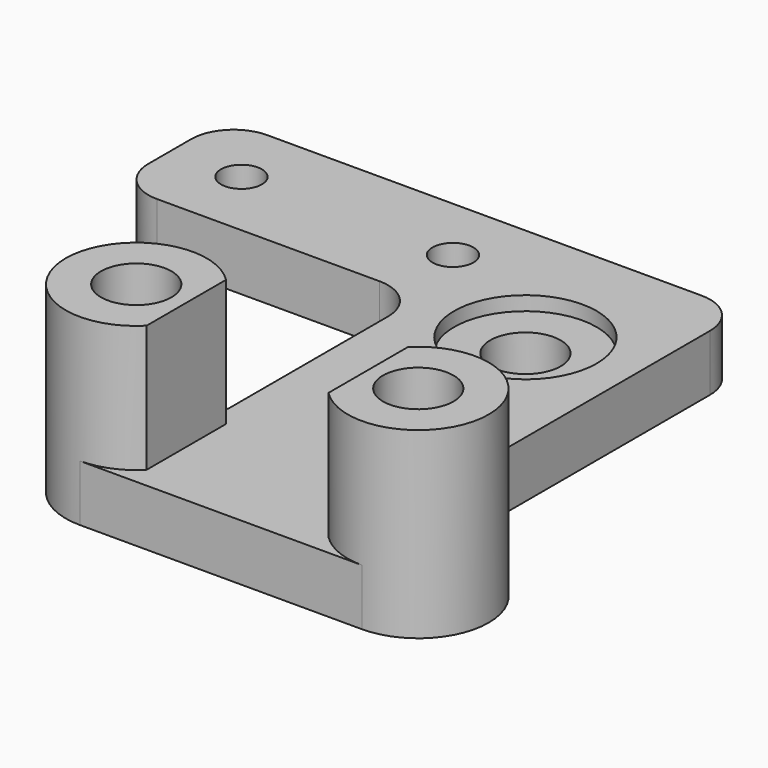
from build123d import *

# Parameters (mm, degrees)
SKETCH_R          = 2.5
SKETCH_R_2        = 1.45
PAD_DEPTH         = 4
SKETCH003_R       = 5
SKETCH003_R_2     = 2.5
PAD001_DEPTH      = 9
SKETCH002_W       = 12.9
SKETCH002_H       = 16.151024
POCKET_DEPTH      = 32.001
POCKET_DEPTH_BACK = 5.001
FILLET_R          = 3
SKETCH004_R       = 5.05
POCKET001_DEPTH   = 1


with BuildPart() as part:
    # Sketch → Pad (new body)
    with BuildSketch(Plane.XY):
        with BuildLine():
            Line((-10, -5), (10, -5))
            ThreePointArc((10, -5), (15, 0), (10, 5))
            Line((7.5, 5), (10, 5))
            Line((7.5, 32), (7.5, 5))
            Line((-7.5, 32), (7.5, 32))
            Line((-29.3, 32), (-7.5, 32))
            Line((-29.3, 22.2), (-29.3, 32))
            Line((-7.5, 22.2), (-29.3, 22.2))
            Line((-7.5, 5), (-7.5, 22.2))
            Line((-7.5, 5), (-10.000009, 5))
            ThreePointArc((-10.000009, 5), (-15, -4e-06), (-10, -5))
        make_face()
        with Locations((-10, 0)):
            Circle(SKETCH_R, mode=Mode.SUBTRACT)
        with Locations((10, 0)):
            Circle(SKETCH_R, mode=Mode.SUBTRACT)
        with Locations((0, 22)):
            Circle(SKETCH_R, mode=Mode.SUBTRACT)
        with Locations((-9.3, 27.2)):
            Circle(SKETCH_R_2, mode=Mode.SUBTRACT)
        with Locations((-24.3, 27.2)):
            Circle(SKETCH_R_2, mode=Mode.SUBTRACT)
    extrude(amount=PAD_DEPTH)

    # Sketch003 (on DatumPlane) → Pad001 (join)
    with BuildSketch(Plane.XY.offset(4)):
        with Locations((-10, 0)):
            Circle(SKETCH003_R)
        with Locations((-10, 0)):
            Circle(SKETCH003_R_2, mode=Mode.SUBTRACT)
        with Locations((10, 0)):
            Circle(SKETCH003_R)
        with Locations((10, 0)):
            Circle(SKETCH003_R_2, mode=Mode.SUBTRACT)
    extrude(amount=PAD001_DEPTH)

    # Sketch002 → Pocket (cut, two sides)
    with BuildSketch(Plane.XZ) as pocket_sk:
        with Locations((0, 12.075512)):
            Rectangle(SKETCH002_W, SKETCH002_H)
    extrude(amount=-POCKET_DEPTH, mode=Mode.SUBTRACT)
    extrude(pocket_sk.sketch, amount=POCKET_DEPTH_BACK, mode=Mode.SUBTRACT)

    # Fillet
    fillet_edges = [part.edges().sort_by_distance(p)[0] for p in [
        (-29.3, 22.2, 2),
        (-29.3, 32, 2),
        (-7.5, 22.2, 2),
        (7.5, 32, 2),
    ]]
    fillet(fillet_edges, radius=FILLET_R)

    # Sketch004 (on Face5 of Fillet) → Pocket001 (cut)
    with BuildSketch(Plane.XY.offset(4)):
        with Locations((0, 22)):
            Circle(SKETCH004_R)
    extrude(amount=-POCKET001_DEPTH, mode=Mode.SUBTRACT)


solid = part.part
